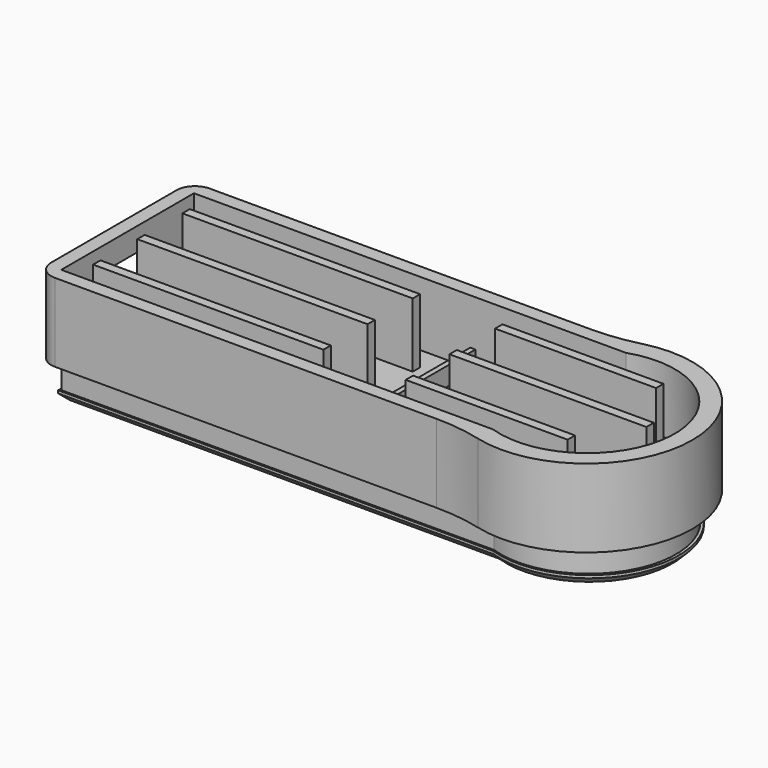
from build123d import *

# Parameters (mm, degrees)
PAD001_DEPTH    = 8.5
PAD002_DEPTH    = 3
FILLET008_R     = 20
FILLET009_R     = 20
FILLET010_R     = 2
FILLET011_R     = 2
POCKET002_DEPTH = 7
POCKET003_DEPTH = 5
PAD006_DEPTH    = 2
POCKET004_DEPTH = 5
PAD007_DEPTH    = 1
CHAMFER_SIZE    = 0.7
POCKET009_DEPTH = 5
SKETCH017_W     = 25
SKETCH017_H     = 1
SKETCH017_W_2   = 17.481396
SKETCH017_W_3   = 21.375297
SKETCH017_W_4   = 17.578514
PAD008_DEPTH    = 7


with BuildPart() as part:
    # Sketch004 → Pad001 (new body)
    with BuildSketch(Plane.XY.offset(80)):
        with BuildLine():
            Line((0.000991, 21), (46.615791, 21))
            ThreePointArc((46.615791, 0), (62.806207, 10.5), (46.615791, 21))
            Line((46.615791, 0), (0.000991, 0))
            Line((0.000991, 0), (0.000991, 21))
        make_face()
    extrude(amount=PAD001_DEPTH)

    # Sketch005 → Pad002 (new body)
    with BuildSketch(Plane(origin=(0, 0, 80), x_dir=(1, 0, 0), z_dir=(0, 0, -1))):
        with BuildLine():
            Line((1.502067, -19.500282), (48.477067, -19.500282))
            ThreePointArc((48.477067, -19.500282), (61.018448, -10.500282), (48.477067, -1.500282))
            Line((1.502067, -1.500282), (48.477067, -1.500282))
            Line((1.502067, -1.500282), (1.502067, -19.500282))
        make_face()
    extrude(amount=PAD002_DEPTH)

    # Fillet008
    fillet008_edges = [part.edges().sort_by_distance(p)[0] for p in [
        (46.615791, 21, 84.25),
    ]]
    fillet(fillet008_edges, radius=FILLET008_R)

    # Fillet009
    fillet009_edges = [part.edges().sort_by_distance(p)[0] for p in [
        (46.615791, 0, 84.25),
    ]]
    fillet(fillet009_edges, radius=FILLET009_R)

    # Fillet010
    fillet010_edges = [part.edges().sort_by_distance(p)[0] for p in [
        (0.000991, 0, 84.25),
    ]]
    fillet(fillet010_edges, radius=FILLET010_R)

    # Fillet011
    fillet011_edges = [part.edges().sort_by_distance(p)[0] for p in [
        (0.000991, 21, 84.25),
    ]]
    fillet(fillet011_edges, radius=FILLET011_R)

    # Sketch006 → Pocket002 (cut)
    with BuildSketch(Plane.XY.offset(88.5)):
        with BuildLine():
            Line((1.500423, 1.490874), (48.388216, 1.476974))
            ThreePointArc((48.388216, 1.476974), (60.908955, 10.483923), (48.388218, 19.490874))
            Line((1.500423, 19.490874), (48.388218, 19.490874))
            Line((1.500423, 19.490874), (1.500423, 1.490874))
        make_face()
    extrude(amount=-POCKET002_DEPTH, mode=Mode.SUBTRACT)

    # Sketch007 → Pocket003 (cut)
    with BuildSketch(Plane(origin=(0.000991, 0, 80), x_dir=(0, -1, 0), z_dir=(-1, 0, 0))):
        with BuildLine():
            ThreePointArc((-13.007468, 5.979853), (-14.65632, 4.331001), (-13.007468, 2.682149))
            Line((-13.007468, 2.682149), (-8.001338, 2.682149))
            ThreePointArc((-8.001338, 2.682149), (-6.352486, 4.331001), (-8.001338, 5.979853))
            Line((-13.007468, 5.979853), (-8.001338, 5.979853))
        make_face()
    extrude(amount=-POCKET003_DEPTH, mode=Mode.SUBTRACT)

    # Sketch012 → Pad006 (new body)
    with BuildSketch(Plane.XY.offset(81.5)):
        Polygon((31.498466, 19.496653), (31.498466, 1.452961), (32.048512, 1.452961), (32.059631, 19.496653), align=None)
    extrude(amount=PAD006_DEPTH)

    # Sketch013 → Pocket004 (cut)
    with BuildSketch(Plane.XY.offset(81.5)):
        with BuildLine():
            ThreePointArc((34.843688, 16.341736), (33.680227, 17.505197), (32.516766, 16.341736))
            Line((32.516766, 16.341736), (32.516766, 3.815891))
            ThreePointArc((32.516766, 3.815891), (33.680227, 2.65243), (34.843688, 3.815891))
            Line((34.843688, 16.341736), (34.843688, 3.815891))
        make_face()
    extrude(amount=-POCKET004_DEPTH, mode=Mode.SUBTRACT)

    # Sketch015 → Pad007 (new body)
    with BuildSketch(Plane(origin=(0, 0, 77), x_dir=(1, 0, 0), z_dir=(0, 0, -1))):
        with BuildLine():
            Line((1.311159, -1.309228), (48.561159, -1.309228))
            ThreePointArc((48.561159, -19.709228), (61.335244, -10.509228), (48.561159, -1.309228))
            Line((48.561159, -19.709228), (1.311159, -19.709228))
            Line((1.311159, -19.709228), (1.311159, -1.309228))
        make_face()
    extrude(amount=PAD007_DEPTH)

    # Chamfer
    chamfer_edges = [part.edges().sort_by_distance(p)[0] for p in [
        (1.311159, 10.509228, 76),
        (24.936159, 1.309228, 76),
        (24.936159, 19.709228, 76),
        (61.335244, 10.509228, 76),
    ]]
    chamfer(chamfer_edges, length=CHAMFER_SIZE)

    # Sketch016 → Pocket009 (cut)
    with BuildSketch(Plane.XY.offset(77)):
        with BuildLine():
            ThreePointArc((34.843688, 16.341736), (33.680227, 17.505197), (32.516766, 16.341736))
            Line((32.516766, 16.341736), (32.516766, 3.815891))
            ThreePointArc((32.516766, 3.815891), (33.680227, 2.65243), (34.843688, 3.815891))
            Line((34.843688, 16.341736), (34.843688, 3.815891))
        make_face()
    extrude(amount=-POCKET009_DEPTH, mode=Mode.SUBTRACT)

    # Sketch017 → Pad008 (new body)
    with BuildSketch(Plane.XY.offset(81.5)):
        with Locations((15.546838, 16.499521)):
            Rectangle(SKETCH017_W, SKETCH017_H)
        with Locations((15.512423, 10.408272)):
            Rectangle(SKETCH017_W, SKETCH017_H)
        with Locations((15.512423, 4.420265)):
            Rectangle(SKETCH017_W, SKETCH017_H)
        with Locations((45.692045, 16.535934)):
            Rectangle(SKETCH017_W_2, SKETCH017_H)
        with Locations((47.570167, 10.442687)):
            Rectangle(SKETCH017_W_3, SKETCH017_H)
        with Locations((45.706188, 4.454679)):
            Rectangle(SKETCH017_W_4, SKETCH017_H)
    extrude(amount=PAD008_DEPTH)


solid = part.part
